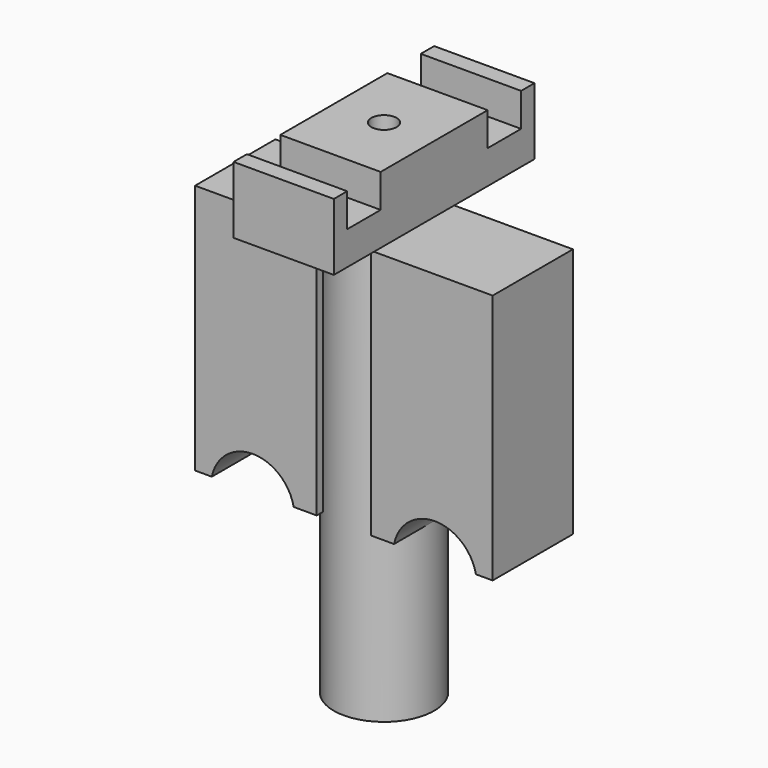
from build123d import *

# Parameters (mm, degrees)
F2_W     = 2.75
F2_H     = 30
F3_DEPTH = 6
F5_W     = 12
F5_H     = 16
F5_R     = 2.9
F5_R_2   = 1.5
F6_DEPTH = 8
F5_H_2   = 2
F5_H_3   = 5
F7_DEPTH = 4
F8_DEPTH = 10
F9_SIZE2 = 1
F9_SIZE  = 5
F10_R    = 0.5


with BuildPart() as f1:
    # F0 (on Front) → F1 (revolve)
    with BuildSketch(Plane.XZ):
        with BuildLine():
            Line((-6, 0), (-3.5, 0))
            Line((-3.5, 0), (-3.5, 1))
            ThreePointArc((-3.5, 1), (-4.5372670324, 1.9020982668), (-3.25, 2.3844340075))
            Line((-3.25, 2.3844340075), (-3.25, 50))
            Line((-3.25, 50), (-6, 50))
            Line((-6, 50), (-6, 0))
        make_face()
    revolve(axis=Axis((0, 0, 28.656648472), (0, 0, 1)))

    # F2 (on Front) → F3 (join, symmetric)
    with BuildSketch(Plane.XZ):
        with BuildLine():
            Line((-6, 20), (-6, 50))
            Line((-6, 50), (-17.7979589711, 50))
            Line((-17.7979589711, 50), (-17.7979589711, 20))
            Line((-17.7979589711, 20), (-15.7979589711, 20))
            ThreePointArc((-15.7979589711, 20), (-10.8989794856, 24), (-6, 20))
        make_face()
        with BuildLine():
            Line((17.7979589711, 50), (6, 50))
            Line((6, 50), (6, 20))
            ThreePointArc((6, 20), (10.8989794856, 24), (15.7979589711, 20))
            Line((15.7979589711, 20), (17.7979589711, 20))
            Line((17.7979589711, 20), (17.7979589711, 50))
        make_face()
        with Locations((4.625, 35)):
            Rectangle(F2_W, F2_H)
        with Locations((-4.625, 35)):
            Rectangle(F2_W, F2_H)
    extrude(amount=F3_DEPTH, both=True)

    # F10
    f10_edges = [f1.edges().sort_by_distance(p)[0] for p in [
        (3.5, 0, 0),
    ]]
    fillet(f10_edges, radius=F10_R)


with BuildPart() as f6:
    # F5 (on offset) → F6 (new body)
    with BuildSketch(Plane.XY.offset(52)):
        Rectangle(F5_W, F5_H)
        Circle(F5_R, mode=Mode.SUBTRACT)
        Circle(F5_R)
        Circle(F5_R_2, mode=Mode.SUBTRACT)
    extrude(amount=F6_DEPTH)



with BuildPart() as f6b:
    # F5 (on offset) → F6, piece 2 (new body)
    with BuildSketch(Plane.XY.offset(52)):
        with Locations((0, -14)):
            Rectangle(F5_W, F5_H_2)
    extrude(amount=F6_DEPTH)


with BuildPart() as f6c:
    # F5 (on offset) → F6, piece 3 (new body)
    with BuildSketch(Plane.XY.offset(52)):
        with Locations((0, 14)):
            Rectangle(F5_W, F5_H_2)
    extrude(amount=F6_DEPTH)


with BuildPart() as f6_1:
    add(f6.part)

    add(f6b.part)  # F7 merges F6b

    add(f6c.part)  # F7 merges F6c
    # F5 (on offset) → F7 (join)
    with BuildSketch(Plane.XY.offset(52)):
        with Locations((0, 10.5)):
            Rectangle(F5_W, F5_H_3)
        with Locations((0, -10.5)):
            Rectangle(F5_W, F5_H_3)
    extrude(amount=F7_DEPTH)

    # F5 (on offset) → F8 (join)
    with BuildSketch(Plane.XY.offset(52)):
        Circle(F5_R)
        Circle(F5_R_2, mode=Mode.SUBTRACT)
    extrude(amount=-F8_DEPTH)

    # F9
    f9_edges = [f6_1.edges().sort_by_distance(p)[0] for p in [
        (-2.9, 0, 42),
    ]]
    f9_side = f6_1.faces().sort_by_distance((-2.9, 0, 47))[0]
    chamfer(f9_edges, length=F9_SIZE, length2=F9_SIZE2, reference=f9_side)


solid = Compound([f1.part, f6_1.part])
